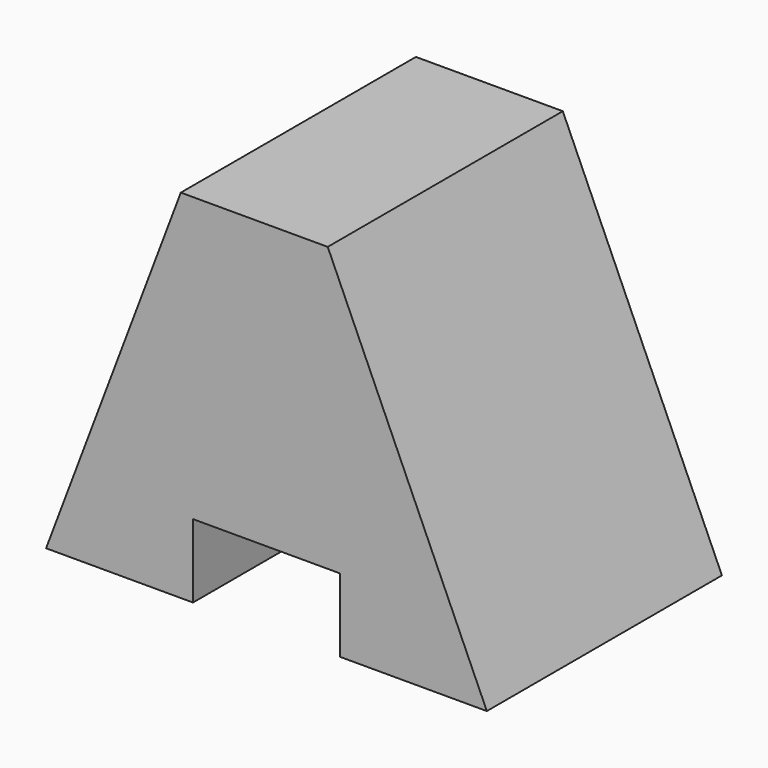
from build123d import *

# Parameters (mm, degrees)
F1_DEPTH = 25.4
F2_W     = 12.7
F2_H     = 6.35
F3_DEPTH = 31.75


with BuildPart() as f1:
    # F0 (on Front) → F1 (new body)
    with BuildSketch(Plane.XZ):
        Polygon((-7.819336, 30.852873), (-20.519336, 30.852873), (-32.164823, 0), (5.935177, 0), align=None)
    extrude(amount=F1_DEPTH)

    # F2 (on Front) → F3 (cut)
    with BuildSketch(Plane.XZ):
        with Locations((-13.114823, 3.175)):
            Rectangle(F2_W, F2_H)
    extrude(amount=F3_DEPTH, mode=Mode.SUBTRACT)


solid = f1.part
